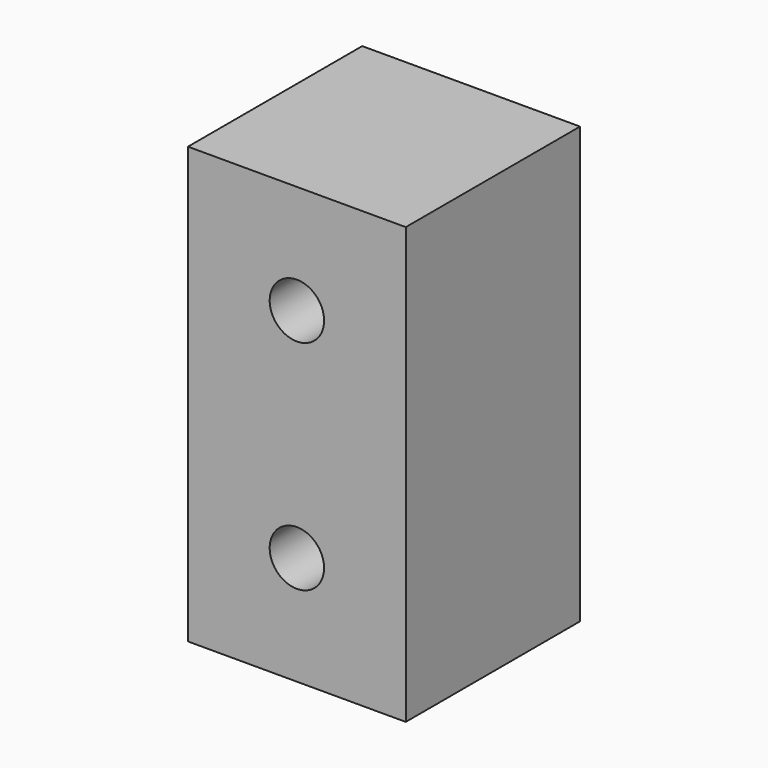
from build123d import *

# Parameters (mm, degrees)
F0_W     = 25.4
F0_H     = 50.8
F1_DEPTH = 25.4
F3_D     = 6.35


with BuildPart() as f1:
    # F0 (on Front) → F1 (new body)
    with BuildSketch(Plane.XZ):
        with Locations((12.7, 25.4)):
            Rectangle(F0_W, F0_H)
    extrude(amount=F1_DEPTH)

    # F3 (through all)
    with Locations(Plane.XZ.offset(25.4)):
        with Locations((12.7, 38.1), (12.7, 12.7)):
            Hole(F3_D / 2)


solid = f1.part
